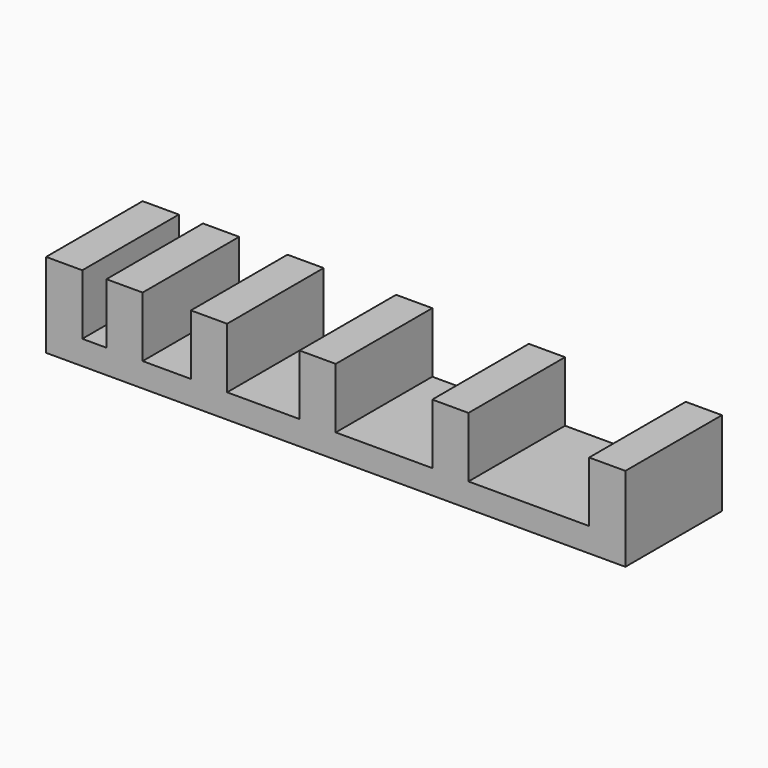
from build123d import *

# Parameters (mm, degrees)
F0_W     = 3
F0_H     = 10
F1_DEPTH = 5
F2_W     = 45
F2_H     = 10
F2_W_2   = 3
F3_DEPTH = 2


with BuildPart() as f1:
    # F0 (on Top) → F1 (new body)
    with BuildSketch(Plane.XY):
        with Locations((-26.961136, -5)):
            Rectangle(F0_W, F0_H)
        with Locations((-21.961136, -5)):
            Rectangle(F0_W, F0_H)
        with Locations((-14.961136, -5)):
            Rectangle(F0_W, F0_H)
        with Locations((-5.961136, -5)):
            Rectangle(F0_W, F0_H)
        with Locations((5.038864, -5)):
            Rectangle(F0_W, F0_H)
        with Locations((18.038864, -5)):
            Rectangle(F0_W, F0_H)
    extrude(amount=F1_DEPTH)

    # F2 (on face) → F3 (join)
    with BuildSketch(Plane(origin=(0, 0, 0), x_dir=(1, 0, 0), z_dir=(0, 0, -1))):
        with Locations((-2.961136, 5)):
            Rectangle(F2_W, F2_H)
        with Locations((-26.961136, 5)):
            Rectangle(F2_W_2, F2_H)
    extrude(amount=F3_DEPTH)


solid = f1.part
